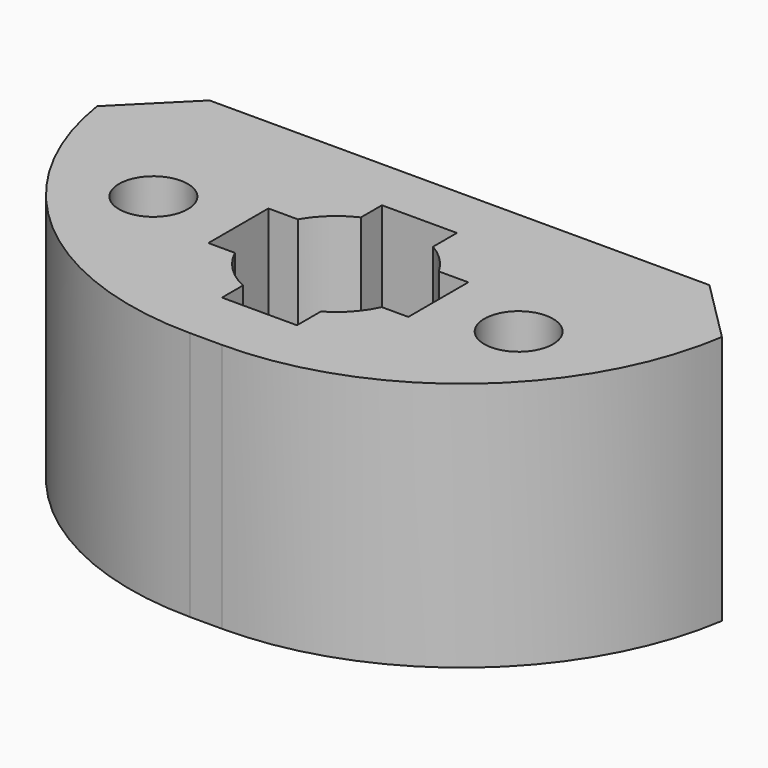
from build123d import *

# Parameters (mm, degrees)
F0_R     = 2.75
F1_DEPTH = 20


with BuildPart() as f1:
    # F0 (on Top) → F1 (new body)
    with BuildSketch(Plane.XY):
        with BuildLine():
            Line((25.054192, 6.176512), (20.054192, 11.176512))
            Line((20.054192, 11.176512), (-19.945808, 11.176512))
            Line((-19.945808, 11.176512), (-24.945808, 6.176512))
            ThreePointArc((-24.945808, 6.176512), (-16.851883, -8.388866), (-1.224984, -14.173488))
            Line((-1.224984, -14.173488), (1.333368, -14.173488))
            ThreePointArc((1.333368, -14.173488), (16.960268, -8.388866), (25.054192, 6.176512))
        make_face()
        with Locations((-14.560476, -1.173488)):
            Circle(F0_R, mode=Mode.SUBTRACT)
        with BuildLine():
            Line((5.694343, 2.05741), (8.054192, 2.05741))
            Line((8.054192, 2.05741), (8.054192, -3.94259))
            Line((8.054192, -3.94259), (5.934845, -3.94259))
            ThreePointArc((5.934845, -3.94259), (4.847493, -5.563735), (3.327843, -6.788932))
            Line((3.327843, -6.788932), (3.327843, -9.173488))
            Line((3.327843, -9.173488), (-2.672157, -9.173488))
            Line((-2.672157, -9.173488), (-2.672157, -7.074083))
            ThreePointArc((-2.672157, -7.074083), (-4.525293, -5.786331), (-5.82646, -3.94259))
            Line((-5.82646, -3.94259), (-7.945808, -3.94259))
            Line((-7.945808, -3.94259), (-7.945808, 2.05741))
            Line((-7.945808, 2.05741), (-5.585958, 2.05741))
            ThreePointArc((-5.585958, 2.05741), (-4.336867, 3.619069), (-2.672157, 4.727107))
            Line((-2.672157, 4.727107), (-2.672157, 6.826512))
            Line((-2.672157, 6.826512), (3.327843, 6.826512))
            Line((3.327843, 6.826512), (3.327843, 4.441956))
            ThreePointArc((3.327843, 4.441956), (4.667811, 3.405215), (5.694343, 2.05741))
        make_face(mode=Mode.SUBTRACT)
        with Locations((14.668861, -1.173488)):
            Circle(F0_R, mode=Mode.SUBTRACT)
        with BuildLine():
            Line((25.054192, 6.176512), (20.054192, 11.176512))
            Line((20.054192, 11.176512), (-19.945808, 11.176512))
            Line((-19.945808, 11.176512), (-24.945808, 6.176512))
            ThreePointArc((-24.945808, 6.176512), (-16.851883, -8.388866), (-1.224984, -14.173488))
            Line((-1.224984, -14.173488), (1.333368, -14.173488))
            ThreePointArc((1.333368, -14.173488), (16.960268, -8.388866), (25.054192, 6.176512))
        make_face()
        with Locations((-14.560476, -1.173488)):
            Circle(F0_R, mode=Mode.SUBTRACT)
        with BuildLine():
            Line((5.694343, 2.05741), (8.054192, 2.05741))
            Line((8.054192, 2.05741), (8.054192, -3.94259))
            Line((8.054192, -3.94259), (5.934845, -3.94259))
            ThreePointArc((5.934845, -3.94259), (4.847493, -5.563735), (3.327843, -6.788932))
            Line((3.327843, -6.788932), (3.327843, -9.173488))
            Line((3.327843, -9.173488), (-2.672157, -9.173488))
            Line((-2.672157, -9.173488), (-2.672157, -7.074083))
            ThreePointArc((-2.672157, -7.074083), (-4.525293, -5.786331), (-5.82646, -3.94259))
            Line((-5.82646, -3.94259), (-7.945808, -3.94259))
            Line((-7.945808, -3.94259), (-7.945808, 2.05741))
            Line((-7.945808, 2.05741), (-5.585958, 2.05741))
            ThreePointArc((-5.585958, 2.05741), (-4.336867, 3.619069), (-2.672157, 4.727107))
            Line((-2.672157, 4.727107), (-2.672157, 6.826512))
            Line((-2.672157, 6.826512), (3.327843, 6.826512))
            Line((3.327843, 6.826512), (3.327843, 4.441956))
            ThreePointArc((3.327843, 4.441956), (4.667811, 3.405215), (5.694343, 2.05741))
        make_face(mode=Mode.SUBTRACT)
        with Locations((14.668861, -1.173488)):
            Circle(F0_R, mode=Mode.SUBTRACT)
    extrude(amount=F1_DEPTH)


solid = f1.part
